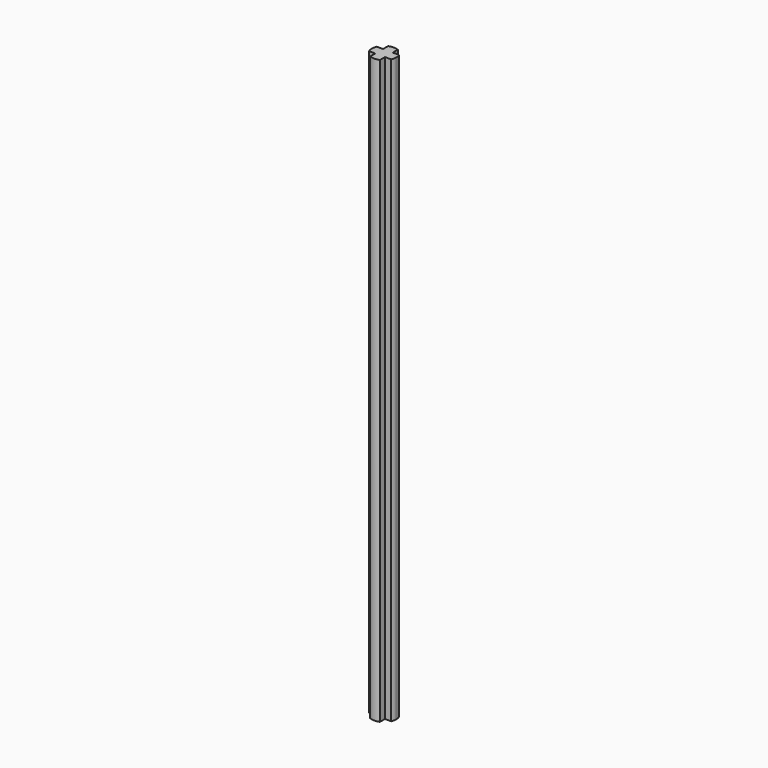
from build123d import *

# Parameters (mm, degrees)
F0_W     = 0.508
F0_H     = 0.508
F1_DEPTH = 30.48


with BuildPart() as f1:
    # F0 (on Top) → F1 (new body)
    with BuildSketch(Plane.XY):
        with BuildLine():
            Line((0.254, 0.254), (0.254, 0.5819871133))
            ThreePointArc((0.254, 0.5819871133), (0, 0.635), (-0.254, 0.5819871133))
            Line((-0.254, 0.5819871133), (-0.254, 0.254))
            Line((-0.254, 0.254), (0.254, 0.254))
        make_face()
        with BuildLine():
            Line((-0.254, -0.254), (-0.254, 0.254))
            Line((-0.254, 0.254), (-0.5819871133, 0.254))
            ThreePointArc((-0.5819871133, 0.254), (-0.635, 0), (-0.5819871133, -0.254))
            Line((-0.5819871133, -0.254), (-0.254, -0.254))
        make_face()
        Rectangle(F0_W, F0_H)
        with BuildLine():
            ThreePointArc((0.5819871133, -0.254), (0.6216055087, -0.1297366237), (0.635, 0))
            ThreePointArc((0.635, 0), (0.6216055087, 0.1297366237), (0.5819871133, 0.254))
            Line((0.5819871133, 0.254), (0.254, 0.254))
            Line((0.254, 0.254), (0.254, -0.254))
            Line((0.254, -0.254), (0.5819871133, -0.254))
        make_face()
        with BuildLine():
            ThreePointArc((-0.254, -0.5819871133), (0, -0.635), (0.254, -0.5819871133))
            Line((0.254, -0.5819871133), (0.254, -0.254))
            Line((0.254, -0.254), (-0.254, -0.254))
            Line((-0.254, -0.254), (-0.254, -0.5819871133))
        make_face()
    extrude(amount=F1_DEPTH)


solid = f1.part
